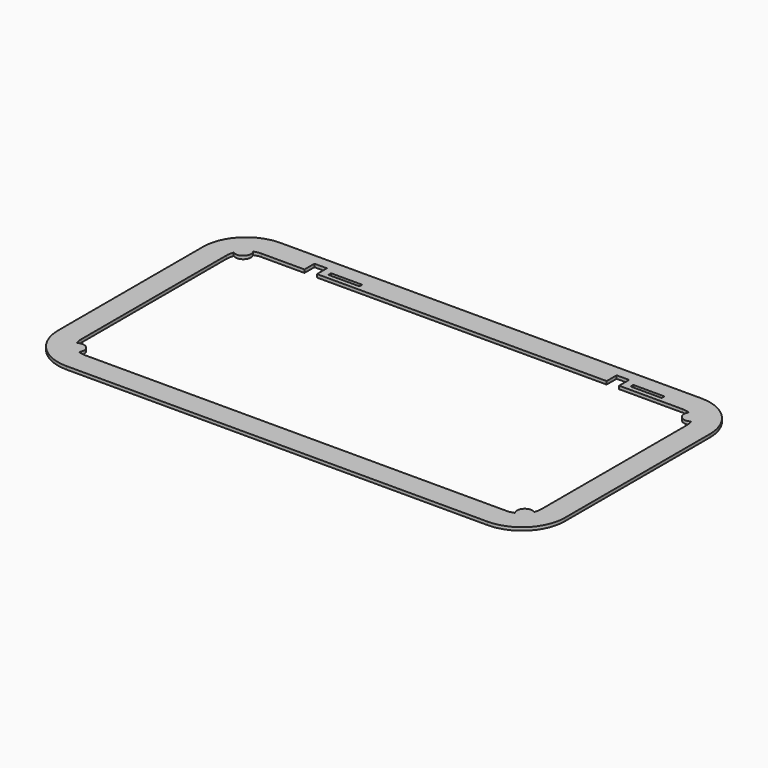
from build123d import *

# Parameters (mm, degrees)
F1_DEPTH = 2.54
F2_W     = 10.16
F2_H     = 10.16
F3_DEPTH = 2.54
F5_DEPTH = 2.54
F6_W     = 25.4
F6_H     = 2.794
F7_DEPTH = 25.4


with BuildPart() as f1:
    # F0 (on Top) → F1 (new body)
    with BuildSketch(Plane.XY):
        with BuildLine():
            Line((206.375, -73.81875), (206.375, 73.81875))
            ThreePointArc((206.375, 73.81875), (196.145704, 98.514454), (171.45, 108.74375))
            Line((171.45, 108.74375), (-171.45, 108.74375))
            ThreePointArc((-171.45, 108.74375), (-196.145704, 98.514454), (-206.375, 73.81875))
            Line((-206.375, 73.81875), (-206.375, -73.81875))
            ThreePointArc((-206.375, -73.81875), (-196.145704, -98.514454), (-171.45, -108.74375))
            Line((-171.45, -108.74375), (171.45, -108.74375))
            ThreePointArc((171.45, -108.74375), (196.145704, -98.514454), (206.375, -73.81875))
        make_face()
        with BuildLine():
            ThreePointArc((187.325, -73.81875), (182.67532, -85.04407), (171.45, -89.69375))
            Line((171.45, -89.69375), (-171.45, -89.69375))
            ThreePointArc((-171.45, -89.69375), (-182.67532, -85.04407), (-187.325, -73.81875))
            Line((-187.325, -73.81875), (-187.325, 73.81875))
            ThreePointArc((-187.325, 73.81875), (-182.67532, 85.04407), (-171.45, 89.69375))
            Line((-171.45, 89.69375), (171.45, 89.69375))
            ThreePointArc((171.45, 89.69375), (182.67532, 85.04407), (187.325, 73.81875))
            Line((187.325, 73.81875), (187.325, -73.81875))
        make_face(mode=Mode.SUBTRACT)
    extrude(amount=F1_DEPTH)

    # F2 (on face) → F3 (cut, through all)
    with BuildSketch(Plane.XY.offset(2.54)):
        with Locations((-131.445, 94.77375)):
            Rectangle(F2_W, F2_H)
        with Locations((114.6175, 94.77375)):
            Rectangle(F2_W, F2_H)
    extrude(amount=-F3_DEPTH, mode=Mode.SUBTRACT)

    # F4 (on face) → F5 (join, through all)
    with BuildSketch(Plane.XY.offset(2.54)):
        with BuildLine():
            ThreePointArc((-186.176704, 79.746635), (-178.185192, 80.553942), (-177.377885, 88.545454))
            ThreePointArc((-177.377885, 88.545454), (-182.67532, 85.04407), (-186.176704, 79.746635))
        make_face()
        with BuildLine():
            ThreePointArc((186.176704, 79.746635), (182.67532, 85.04407), (177.377885, 88.545454))
            ThreePointArc((177.377885, 88.545454), (178.185192, 80.553942), (186.176704, 79.746635))
        make_face()
        with BuildLine():
            ThreePointArc((186.176704, -79.746635), (178.185192, -80.553942), (177.377885, -88.545454))
            ThreePointArc((177.377885, -88.545454), (182.67532, -85.04407), (186.176704, -79.746635))
        make_face()
        with BuildLine():
            ThreePointArc((-177.377885, -88.545454), (-178.185192, -80.553942), (-186.176704, -79.746635))
            ThreePointArc((-186.176704, -79.746635), (-182.67532, -85.04407), (-177.377885, -88.545454))
        make_face()
    extrude(amount=-F5_DEPTH)

    # F6 (on face) → F7 (cut)
    with BuildSketch(Plane.XY.offset(2.54)):
        with Locations((-107.315, 94.77375)):
            Rectangle(F6_W, F6_H)
        with Locations((138.7475, 94.77375)):
            Rectangle(F6_W, F6_H)
    extrude(amount=-F7_DEPTH, mode=Mode.SUBTRACT)


solid = f1.part
